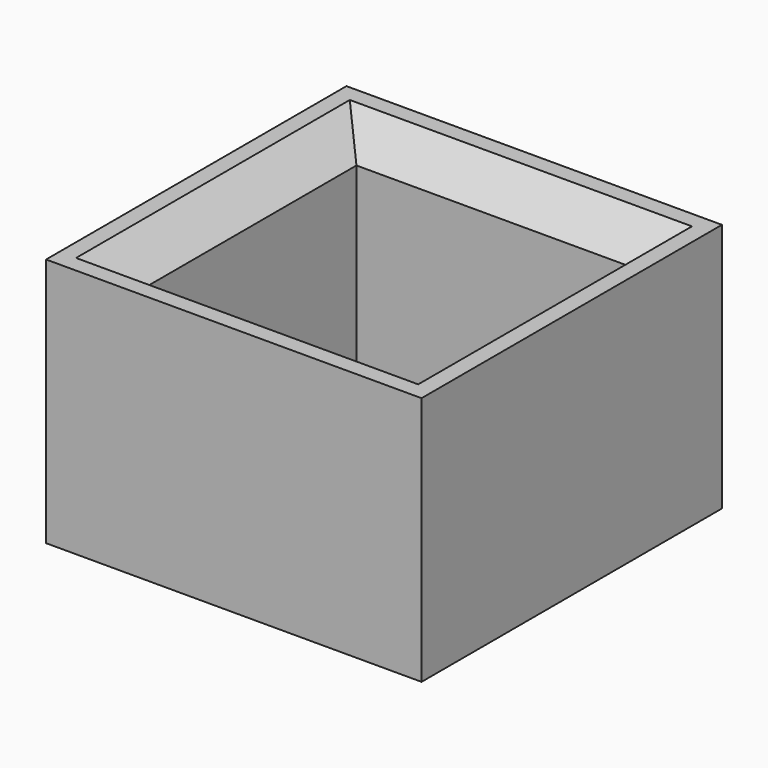
from build123d import *

# Parameters (mm, degrees)
F0_W     = 22.55
F0_H     = 22.55
F0_W_2   = 16.55
F0_H_2   = 16.55
F1_DEPTH = 5
F2_DEPTH = 15
F3_SIZE  = 2


with BuildPart() as f1:
    # F0 (on Top) → F1 (new body)
    with BuildSketch(Plane.XY):
        with Locations((-8.275, 8.275)):
            Rectangle(F0_W, F0_H)
        with Locations((-8.275, 8.275)):
            Rectangle(F0_W_2, F0_H_2, mode=Mode.SUBTRACT)
    extrude(amount=F1_DEPTH)

    # F0 (on Top) → F2 (join)
    with BuildSketch(Plane.XY):
        with Locations((-8.275, 8.275)):
            Rectangle(F0_W, F0_H)
        with Locations((-8.275, 8.275)):
            Rectangle(F0_W_2, F0_H_2, mode=Mode.SUBTRACT)
    extrude(amount=F2_DEPTH)

    # F3
    f3_edges = [f1.edges().sort_by_distance(p)[0] for p in [
        (-8.275, 16.55, 15),
        (-16.55, 8.275, 15),
        (0, 8.275, 15),
        (-8.275, 0, 15),
    ]]
    chamfer(f3_edges, length=F3_SIZE)


solid = f1.part
